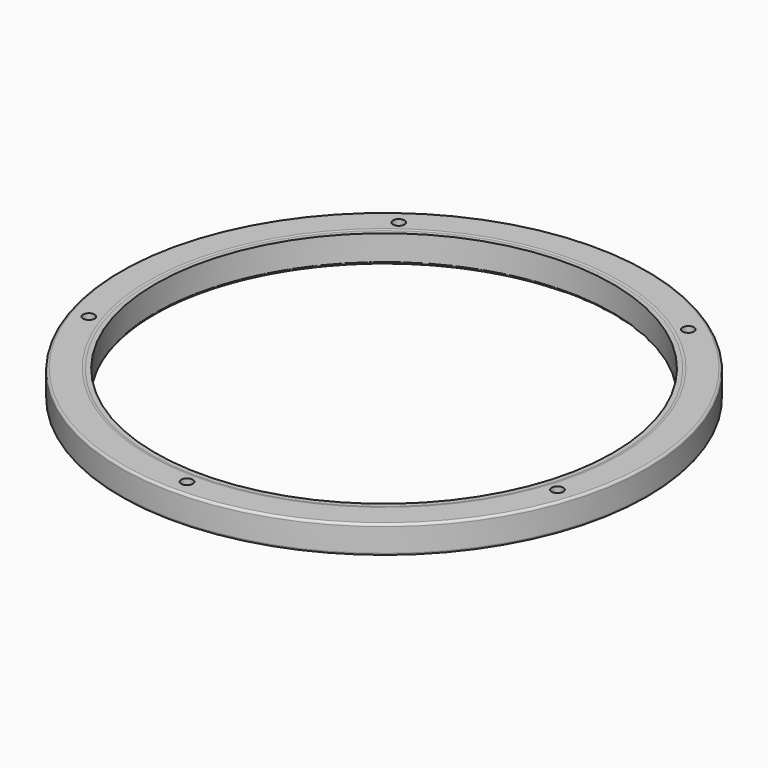
from build123d import *

# Parameters (mm, degrees)
F0_R     = 56.25
F0_R_2   = 1.225
F0_R_3   = 48.75
F1_DEPTH = 6
F2_R     = 1.5
F3_DEPTH = 5.9
F4_R     = 0.5


with BuildPart() as f1:
    # F0 (on Top) → F1 (new body)
    with BuildSketch(Plane.XY):
        Circle(F0_R)
        with Locations((-49.932854, -16.224168)):
            Circle(F0_R_2, mode=Mode.SUBTRACT)
        with Locations((0, -52.50251)):
            Circle(F0_R_2, mode=Mode.SUBTRACT)
        with Locations((49.932854, -16.224168)):
            Circle(F0_R_2, mode=Mode.SUBTRACT)
        with Locations((-30.860201, 42.475423)):
            Circle(F0_R_2, mode=Mode.SUBTRACT)
        Circle(F0_R_3, mode=Mode.SUBTRACT)
        with Locations((30.860201, 42.475423)):
            Circle(F0_R_2, mode=Mode.SUBTRACT)
    extrude(amount=F1_DEPTH)

    # F2
    f2_edges = [f1.edges().sort_by_distance(p)[0] for p in [
        (-48.75, 0, 6),
    ]]
    fillet(f2_edges, radius=F2_R)

    # F0 (on Top) → F3 (join)
    with BuildSketch(Plane.XY):
        Circle(F0_R)
        with Locations((-49.932854, -16.224168)):
            Circle(F0_R_2, mode=Mode.SUBTRACT)
        with Locations((0, -52.50251)):
            Circle(F0_R_2, mode=Mode.SUBTRACT)
        with Locations((49.932854, -16.224168)):
            Circle(F0_R_2, mode=Mode.SUBTRACT)
        with Locations((-30.860201, 42.475423)):
            Circle(F0_R_2, mode=Mode.SUBTRACT)
        Circle(F0_R_3, mode=Mode.SUBTRACT)
        with Locations((30.860201, 42.475423)):
            Circle(F0_R_2, mode=Mode.SUBTRACT)
    extrude(amount=F3_DEPTH)

    # F4
    f4_edges = [f1.edges().sort_by_distance(p)[0] for p in [
        (-48.75, 0, 0),
        (-56.25, 0, 0),
        (-56.25, 0, 6),
    ]]
    fillet(f4_edges, radius=F4_R)


solid = f1.part
